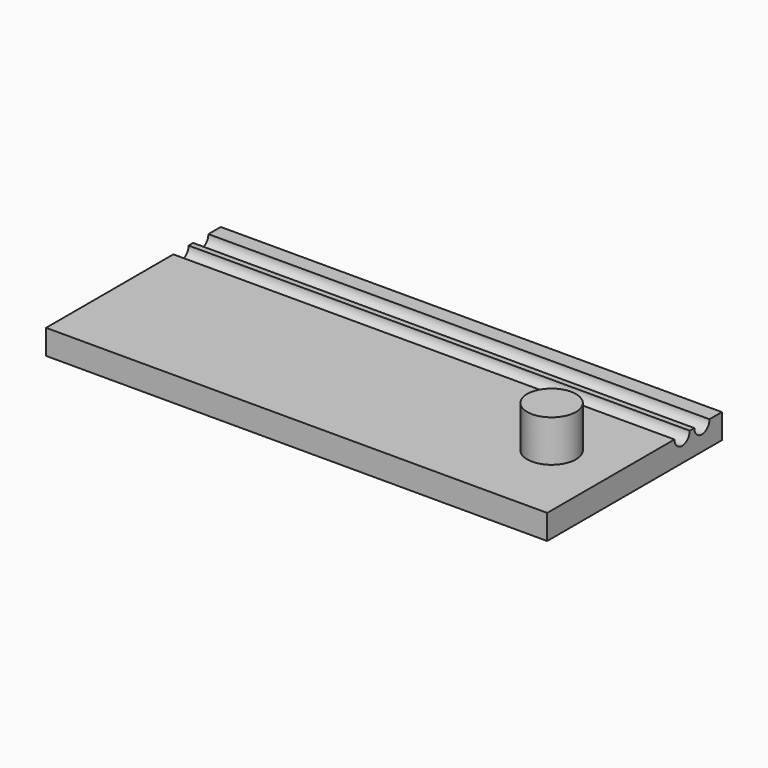
from build123d import *

# Parameters (mm, degrees)
F1_DEPTH = 300
F2_R     = 14.602724
F3_DEPTH = 25


with BuildPart() as f1:
    # F0 (on Right) → F1 (new body)
    with BuildSketch(Plane.YZ):
        with BuildLine():
            Line((29.858291, 7.412897), (-65.36828, 7.412897))
            Line((-65.36828, 7.412897), (-65.36828, -7.412897))
            Line((-65.36828, -7.412897), (65.36828, -7.412897))
            Line((65.36828, -7.412897), (65.36828, 7.412897))
            Line((65.36828, 7.412897), (56.092858, 7.412897))
            ThreePointArc((56.092858, 7.412897), (50.38289, 1.702929), (44.672921, 7.412897))
            Line((44.672921, 7.412897), (41.278228, 7.412897))
            ThreePointArc((41.278228, 7.412897), (35.56826, 1.702929), (29.858291, 7.412897))
        make_face()
    extrude(amount=F1_DEPTH)

    # F2 (on face) → F3 (join)
    with BuildSketch(Plane.XY.offset(7.412897)):
        with Locations((262.049705, -14.663358)):
            Circle(F2_R)
    extrude(amount=F3_DEPTH)


solid = f1.part
